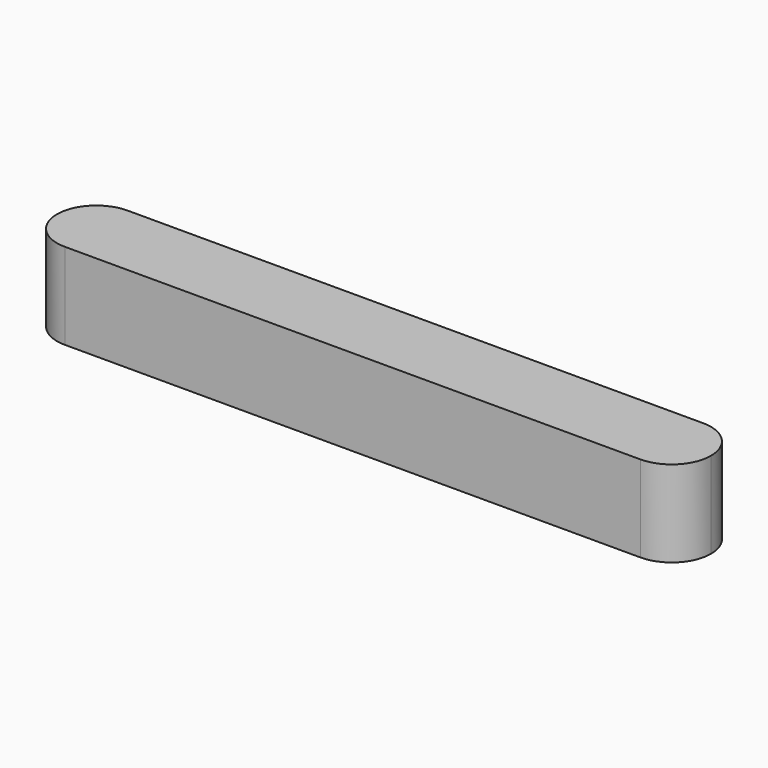
from build123d import *

# Parameters (mm, degrees)
F1_DEPTH = 3.3


with BuildPart() as f1:
    # F0 (on Top) → F1 (new body)
    with BuildSketch(Plane.XY):
        with BuildLine():
            ThreePointArc((0, 1.5), (0.43934, 0.43934), (1.5, 0))
            Line((1.5, 0), (23.5, 0))
            ThreePointArc((23.5, 0), (24.56066, 0.43934), (25, 1.5))
            ThreePointArc((25, 1.5), (24.56066, 2.56066), (23.5, 3))
            Line((23.5, 3), (1.5, 3))
            ThreePointArc((1.5, 3), (0.43934, 2.56066), (0, 1.5))
        make_face()
    extrude(amount=F1_DEPTH)


solid = f1.part
